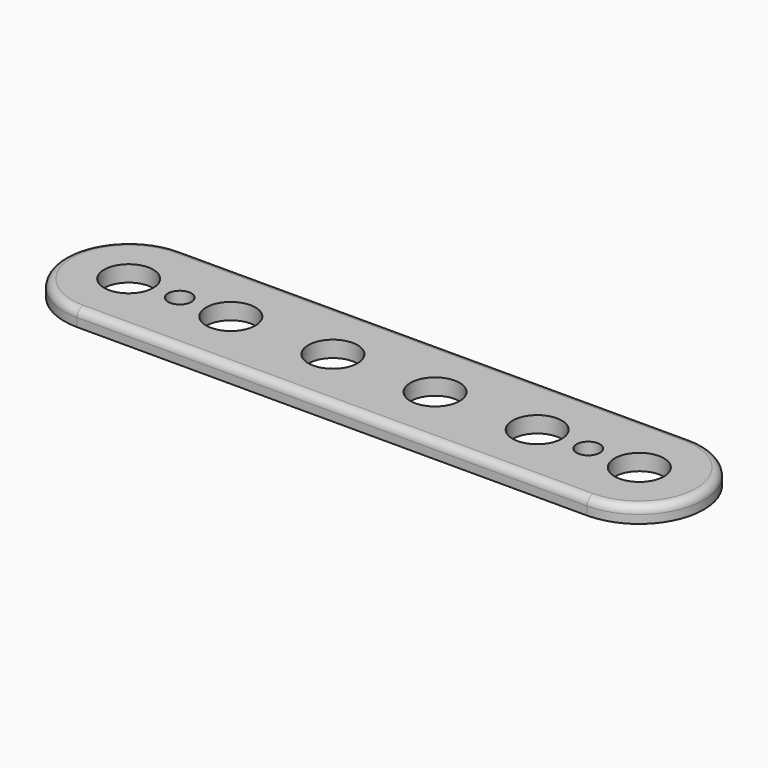
from build123d import *

# Parameters (mm, degrees)
F0_R     = 2.413
F0_R_2   = 1.143
F1_DEPTH = 1.5875
F2_R     = 0.762


with BuildPart() as f1:
    # F0 (on Top) → F1 (new body)
    with BuildSketch(Plane.XY):
        with BuildLine():
            Line((24.9936, 6.35), (0, 6.35))
            Line((0, 6.35), (-24.9936, 6.35))
            ThreePointArc((-24.9936, 6.35), (-31.3436, 0), (-24.9936, -6.35))
            Line((-24.9936, -6.35), (0, -6.35))
            Line((0, -6.35), (24.9936, -6.35))
            ThreePointArc((24.9936, -6.35), (31.3436, 0), (24.9936, 6.35))
        make_face()
        with Locations((-25.019, 0)):
            Circle(F0_R, mode=Mode.SUBTRACT)
        with Locations((-20.0152, 0)):
            Circle(F0_R_2, mode=Mode.SUBTRACT)
        with Locations((-15.0114, 0)):
            Circle(F0_R, mode=Mode.SUBTRACT)
        with Locations((-5.0038, 0)):
            Circle(F0_R, mode=Mode.SUBTRACT)
        with Locations((5.0038, 0)):
            Circle(F0_R, mode=Mode.SUBTRACT)
        with Locations((15.0114, 0)):
            Circle(F0_R, mode=Mode.SUBTRACT)
        with Locations((20.0152, 0)):
            Circle(F0_R_2, mode=Mode.SUBTRACT)
        with Locations((25.019, 0)):
            Circle(F0_R, mode=Mode.SUBTRACT)
    extrude(amount=F1_DEPTH)

    # F2
    f2_edges = [f1.edges().sort_by_distance(p)[0] for p in [
        (-31.3436, 0, 1.5875),
    ]]
    fillet(f2_edges, radius=F2_R)


solid = f1.part
